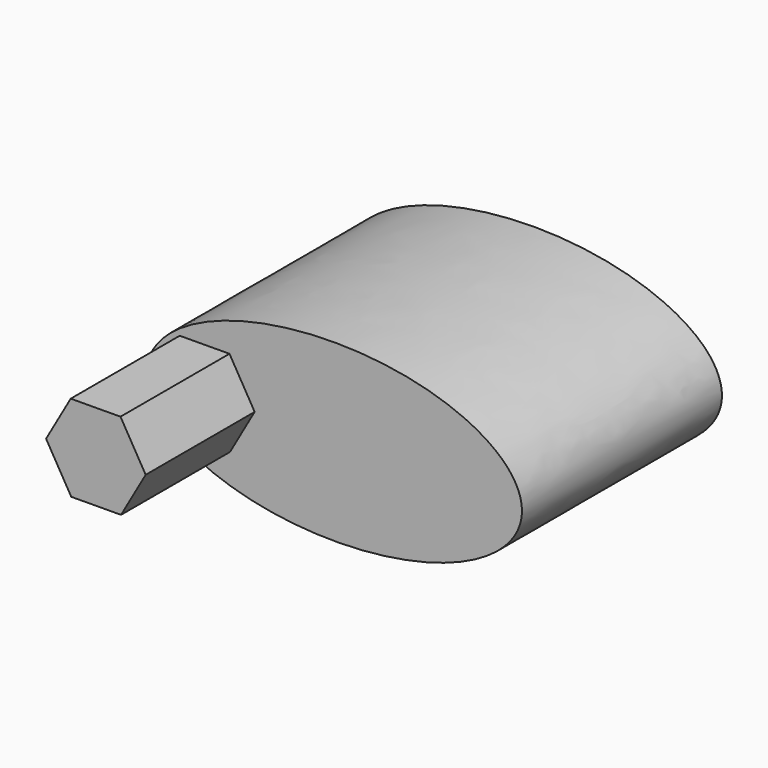
from build123d import *

# Parameters (mm, degrees)
F1_DEPTH = 200
F3_DEPTH = 109
F5_DEPTH = 110
F7_DEPTH = 150


with BuildPart() as f1:
    # F0 (on Front) → F1 (new body)
    with BuildSketch(Plane.XZ):
        with BuildLine():
            add(Edge.make_bspline(
                [(150, 0), (150, 121.2435565298), (-75, 60.6217782649), (-300, 0), (-75, -60.6217782649), (150, -121.2435565298), (150, 0)],
                knots=[0, 0, 0, 2.0943951024, 2.0943951024, 4.1887902048, 4.1887902048, 6.2831853072, 6.2831853072, 6.2831853072], degree=2, weights=[1, 0.5, 1, 0.5, 1, 0.5, 1]))
        make_face()
    extrude(amount=F1_DEPTH)

    # F2 (on face) → F3 (join)
    with BuildSketch(Plane.XZ.offset(200)):
        Polygon((-83.5333608229, -34.3740822573), (-63.83208505, 0.2504716448), (-83.9671904375, 34.6245539021), (-123.8035715978, 34.3740822573), (-143.5048473707, -0.2504716448), (-123.3697419833, -34.6245539021), align=None)
    extrude(amount=F3_DEPTH)

    # F4 (on face) → F5 (cut)
    with BuildSketch(Plane(origin=(0, 0, 0), x_dir=(-1, 0, 0), z_dir=(0, 1, 0))):
        Polygon((135.164309144, -20.2072594216), (135.164309144, 20.2072594216), (100.164309144, 40.4145188433), (65.164309144, 20.2072594216), (65.164309144, -20.2072594216), (100.164309144, -40.4145188433), align=None)
    extrude(amount=-F5_DEPTH, mode=Mode.SUBTRACT)

    # F6 (on face) → F7 (cut)
    with BuildSketch(Plane(origin=(0, 0, 0), x_dir=(-1, 0, 0), z_dir=(0, 1, 0))):
        with BuildLine():
            add(Edge.make_bspline(
                [(44.3536266685, -23.1022424996), (52.9544348197, -34.1563620058), (73.7692574569, -66.4484611773), (-25.6073405061, -60.5511833627), (-51.4366682447, -55.265214578), (-90.9208210143, -46.4146624004), (-118.523618488, -34.0551080466), (-135.7646837897, -14.3576106227), (-138.5377993297, -0.0881254192), (-133.1232883358, 28.3352558589), (-102.6690695003, 43.6855284564), (-66.8786438898, 52.700358023), (-19.4064630693, 68.2630542358), (14.8305548312, 44.5367496987), (15.2770077241, 8.9124603237), (34.5080847872, -10.4483389774), (44.3536266685, -23.1022424996)],
                knots=[0, 0, 0, 0, 0.0692904216, 0.1750397077, 0.2449941504, 0.3192777608, 0.387061419, 0.4464856226, 0.491880771, 0.5534564026, 0.621549575, 0.6968998019, 0.7807832914, 0.8521747648, 0.920681669, 1, 1, 1, 1], degree=3))
        make_face()
    extrude(amount=-F7_DEPTH, mode=Mode.SUBTRACT)


solid = f1.part
